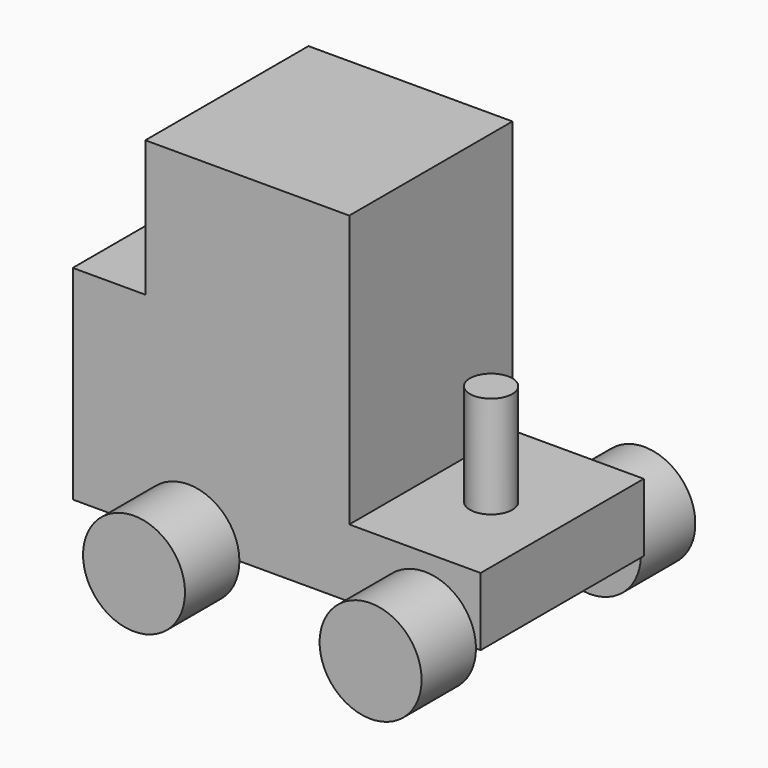
from build123d import *

# Parameters (mm, degrees)
F0_W      = 152.4
F0_H      = 127
F1_DEPTH  = 76.2
F2_W      = 27.119612
F2_H      = 50.8
F3_DEPTH  = 76.201
F4_R      = 19.05
F5_DEPTH  = 25.4
F7_DEPTH  = 25.4
F3_FACE_W = 16.120646
F3_FACE_H = 76.2
F9_DEPTH  = 38.1
F8_R      = 7.927826
F10_DEPTH = 40.64


with BuildPart() as f1:
    # F0 (on Front) → F1 (new body)
    with BuildSketch(Plane.XZ):
        Rectangle(F0_W, F0_H)
    extrude(amount=F1_DEPTH)

    # F2 (on face) → F3 (cut, through all)
    with BuildSketch(Plane.XZ.offset(76.2)):
        with Locations((-62.640194, 38.1)):
            Rectangle(F2_W, F2_H)
        Polygon((76.2, 63.5), (27.119612, 63.5), (27.119612, -38.1), (42.236097, -38.1), (42.236097, 0), (58.356743, 0), (58.356743, -38.1), (76.2, -38.1), align=None)
    extrude(amount=-F3_DEPTH, mode=Mode.SUBTRACT)

    # F4 (on face) → F5 (join)
    with BuildSketch(Plane.XZ.offset(76.2)):
        with Locations((-32.980844, -63.5)):
            Circle(F4_R)
        with Locations((55.411834, -63.5)):
            Circle(F4_R)
    extrude(amount=F5_DEPTH)

    # F6 (on face) → F7 (join)
    with BuildSketch(Plane(origin=(0, 0, 0), x_dir=(-1, 0, 0), z_dir=(0, 1, 0))):
        with BuildLine():
            Line((51.936118, -63.5), (13.836118, -63.5))
            ThreePointArc((13.836118, -63.5), (32.886118, -82.55), (51.936118, -63.5))
        make_face()
        with BuildLine():
            ThreePointArc((-75.149854, -63.5), (-56.099854, -82.55), (-37.049854, -63.5))
            Line((-37.049854, -63.5), (-75.149854, -63.5))
        make_face()
        with BuildLine():
            ThreePointArc((51.936118, -63.5), (32.886118, -44.45), (13.836118, -63.5))
            Line((13.836118, -63.5), (51.936118, -63.5))
        make_face()
        with BuildLine():
            Line((-75.149854, -63.5), (-37.049854, -63.5))
            ThreePointArc((-37.049854, -63.5), (-56.099854, -44.45), (-75.149854, -63.5))
        make_face()
    extrude(amount=F7_DEPTH)

    # F3_face (on face) → F9 (cut)
    with BuildSketch(Plane(origin=(50.29642, -38.1, 0), x_dir=(1, 0, 0), z_dir=(0, 0, 1))):
        Rectangle(F3_FACE_W, F3_FACE_H)
    extrude(amount=-F9_DEPTH, mode=Mode.SUBTRACT)

    # F8 (on Top) → F10 (join)
    with BuildSketch(Plane.XY):
        with Locations((50.55435, -39.241035)):
            Circle(F8_R)
    extrude(amount=-F10_DEPTH)


solid = f1.part
